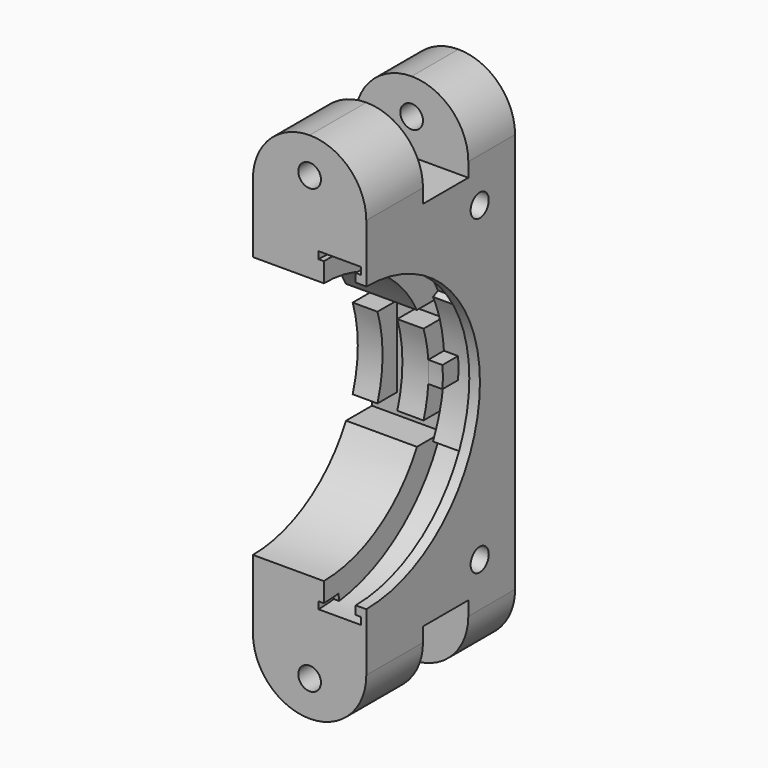
from build123d import *

# Parameters (mm, degrees)
SKETCH001_W     = 23.25
SKETCH001_H     = 46.5
POCKET_DEPTH    = 16.001
POCKET001_DEPTH = 21
SKETCH003_W     = 4.5
SKETCH003_H     = 1
GROOVE_ANGLE    = 65
SKETCH004_W     = 6
SKETCH004_H     = 1
GROOVE001_ANGLE = 7
PAD_DEPTH       = 16
SKETCH006_W     = 8
SKETCH006_H     = 10
POCKET002_DEPTH = 16.001
SKETCH007_R     = 1.6
POCKET003_DEPTH = 26.251
POCKET004_DEPTH = 2.7
FILLET_R        = 7.999
SKETCH009_R     = 1.6
POCKET005_DEPTH = 16.001
PAD001_DEPTH    = 2


with BuildPart() as part:
    # Sketch → Revolution (revolve)
    with BuildSketch(Plane.XY):
        Polygon((0, -18.5), (10, -18.5), (10, -21.25), (14.5, -21.25), (14.5, -20.05), (16, -20.05), (16, -23.25), (14.5, -23.25), (10, -23.25), (0, -23.25), align=None)
    revolve(axis=Axis((0, 0, 0), (1, 0, 0)))

    # Sketch001 (on Face9 of Revolution) → Pocket (cut, through all)
    with BuildSketch(Plane.YZ.offset(16)):
        with Locations((-11.625, 0)):
            Rectangle(SKETCH001_W, SKETCH001_H)
    extrude(amount=-POCKET_DEPTH, mode=Mode.SUBTRACT)

    # Sketch002 (on Face2 of Pocket) → Pocket001 (cut)
    with BuildSketch(Plane.XZ):
        Polygon((0, 8.5), (10, 8.5), (10, 5.7), (6.3, 5.7), (6.3, -5.7), (10, -5.7), (10, -8.5), (0, -8.5), (0, -5.7), (3.5, -5.7), (3.5, 5.7), (0, 5.7), align=None)
    extrude(amount=-POCKET001_DEPTH, mode=Mode.SUBTRACT)

    # Sketch003 (on Face4 of Pocket001) → Groove (revolve, cut)
    with BuildSketch(Plane.XZ):
        with Locations((12.25, -21.75)):
            Rectangle(SKETCH003_W, SKETCH003_H)
    groove = revolve(axis=Axis((0, 0, 0), (1, 0, 0)), revolution_arc=GROOVE_ANGLE, mode=Mode.SUBTRACT)

    # Sketch004 (on Face4 of Groove) → Groove001 (revolve, cut)
    with BuildSketch(Plane.XZ):
        with Locations((12.25, -21.75)):
            Rectangle(SKETCH004_W, SKETCH004_H)
    groove001 = revolve(axis=Axis((0, 0, 0), (1, 0, 0)), revolution_arc=GROOVE001_ANGLE, mode=Mode.SUBTRACT)

    # Sketch005 (on Face12 of Groove001) → Pad (join)
    with BuildSketch(Plane(origin=(0, 0, 0), x_dir=(0, -1, 0), z_dir=(-1, 0, 0))):
        with BuildLine():
            ThreePointArc((0, 23.25), (-23.25, 0), (0, -23.25))
            Line((0, -36.25), (0, -23.25))
            Line((-26.25, -36.25), (0, -36.25))
            Line((-26.25, -36.25), (-26.25, 36.25))
            Line((-26.25, 36.25), (0, 36.25))
            Line((0, 36.25), (0, 23.25))
        make_face()
    extrude(amount=-PAD_DEPTH)

    # Sketch006 (on Face11 of Pad) → Pocket002 (cut, through all)
    with BuildSketch(Plane.YZ.offset(16)):
        with Locations((14, 31.25)):
            Rectangle(SKETCH006_W, SKETCH006_H)
        with Locations((14, -31.25)):
            Rectangle(SKETCH006_W, SKETCH006_H)
    extrude(amount=-POCKET002_DEPTH, mode=Mode.SUBTRACT)

    # Sketch007 (on Face40 of Pocket002) → Pocket003 (cut, through all)
    with BuildSketch(Plane(origin=(0, 26.25, 0), x_dir=(-1, 0, 0), z_dir=(0, 1, 0))):
        with Locations((-8, 31.25)):
            Circle(SKETCH007_R)
        with Locations((-8, -31.25)):
            Circle(SKETCH007_R)
    extrude(amount=-POCKET003_DEPTH, mode=Mode.SUBTRACT)

    # Sketch008 (on Face41 of Pocket003) → Pocket004 (cut)
    with BuildSketch(Plane(origin=(0, 26.25, 0), x_dir=(-1, 0, 0), z_dir=(0, 1, 0))):
        Polygon((-9.818653, 34.4), (-11.637307, 31.25), (-9.818653, 28.1), (-6.181347, 28.1), (-4.362693, 31.25), (-6.181347, 34.4), align=None)
        Polygon((-9.818653, -28.1), (-11.637307, -31.25), (-9.818653, -34.4), (-6.181347, -34.4), (-4.362693, -31.25), (-6.181347, -28.1), align=None)
    extrude(amount=-POCKET004_DEPTH, mode=Mode.SUBTRACT)

    # Mirrored: Groove001, Groove across XY
    add(groove001.mirror(Plane.XY), mode=Mode.SUBTRACT)
    add(groove.mirror(Plane.XY), mode=Mode.SUBTRACT)

    # Fillet
    fillet_edges = [part.edges().sort_by_distance(p)[0] for p in [
        (0, 22.125, 36.25),
        (0, 5, 36.25),
        (16, 5, 36.25),
        (16, 22.125, 36.25),
        (0, 22.125, -36.25),
        (0, 5, -36.25),
        (16, 22.125, -36.25),
        (16, 5, -36.25),
    ]]
    fillet(fillet_edges, radius=FILLET_R)

    # Sketch009 (on Face7 of Fillet) → Pocket005 (cut, through all)
    with BuildSketch(Plane.YZ.offset(16)):
        with Locations((20.007097, 22.008097)):
            Circle(SKETCH009_R)
        with Locations((20.007097, -22.008097)):
            Circle(SKETCH009_R)
    extrude(amount=-POCKET005_DEPTH, mode=Mode.SUBTRACT)

    # Sketch010 (on Face89 of Pocket005) → Pad001 (join)
    with BuildSketch(Plane.YZ.offset(10)):
        with BuildLine():
            ThreePointArc((18.439089, -1.5), (18.5, 0), (18.439089, 1.5))
            Line((18.439089, 1.5), (21.196993, 1.5))
            ThreePointArc((21.196993, -1.5), (21.25, 0), (21.196993, 1.5))
            Line((18.439089, -1.5), (21.196993, -1.5))
        make_face()
    extrude(amount=PAD001_DEPTH)


solid = part.part
